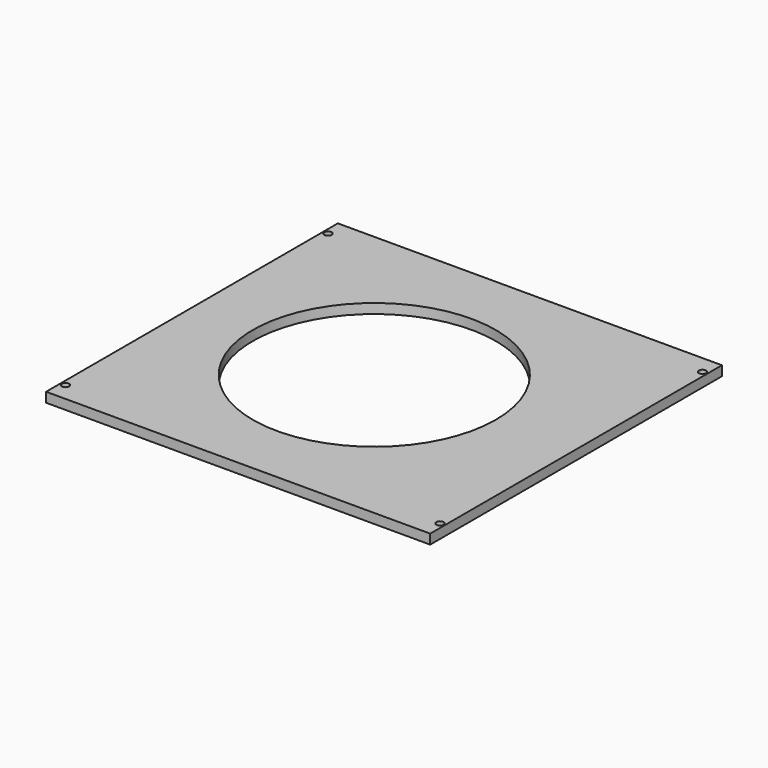
from build123d import *

# Parameters (mm, degrees)
F0_W     = 158
F0_H     = 150
F1_DEPTH = 4
F2_R     = 1.5
F3_DEPTH = 25
F4_R     = 50
F5_DEPTH = 25


with BuildPart() as f1:
    # F0 (on Top) → F1 (new body)
    with BuildSketch(Plane.XY):
        with Locations((-79, -75)):
            Rectangle(F0_W, F0_H)
    extrude(amount=F1_DEPTH)

    # F2 (on face) → F3 (cut)
    with BuildSketch(Plane.XY.offset(4)):
        with Locations((-156, -142.5)):
            Circle(F2_R)
        with Locations((-2, -142.5)):
            Circle(F2_R)
        with Locations((-156, -7.5)):
            Circle(F2_R)
        with Locations((-2, -7.5)):
            Circle(F2_R)
    extrude(amount=-F3_DEPTH, mode=Mode.SUBTRACT)

    # F4 (on face) → F5 (cut)
    with BuildSketch(Plane.XY.offset(4)):
        with Locations((-83, -75)):
            Circle(F4_R)
    extrude(amount=-F5_DEPTH, mode=Mode.SUBTRACT)


solid = f1.part
